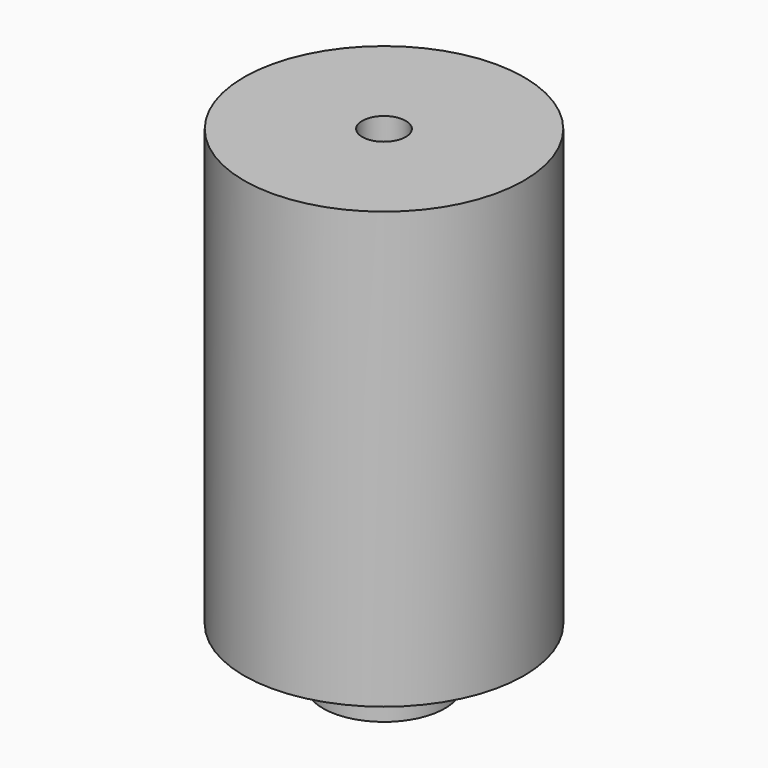
from build123d import *

# Parameters (mm, degrees)
SKETCH001_R   = 4.4
SKETCH001_R_2 = 2
PAD_DEPTH     = 4


with BuildPart() as part:
    # Sketch → Revolution (revolve)
    with BuildSketch(Plane.XZ):
        Polygon((-4.4, 0), (-5.6, 0), (-5.6, 5), (-12.85, 5), (-12.85, 45), (-4.4, 45), align=None)
    revolve(axis=Axis((0, 0, 0), (0, 0, 1)))

    # Sketch001 (on Face5 of Revolution) → Pad (new body)
    with BuildSketch(Plane(origin=(0, 0, 45), x_dir=(-1, 0, 0), z_dir=(0, 0, 1))):
        Circle(SKETCH001_R)
        Circle(SKETCH001_R_2, mode=Mode.SUBTRACT)
    extrude(amount=-PAD_DEPTH)


solid = part.part
